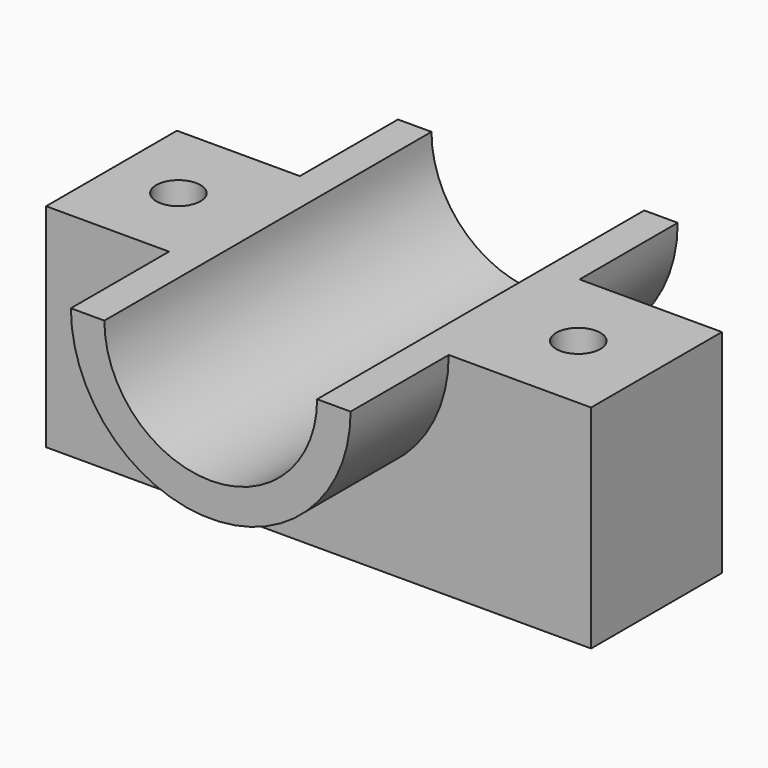
from build123d import *

# Parameters (mm, degrees)
F0_R     = 21.720665
F0_R_2   = 16.520494
F1_DEPTH = 31.75
F0_W     = 84.640459
F0_H     = 65.472521
F2_DEPTH = 12.7
F3_W     = 86.387612
F3_H     = 35.076849
F4_DEPTH = 31.75
F5_R     = 3.429
F6_DEPTH = 25.4


with BuildPart() as f1:
    # F0 (on Front) → F1 (new body, symmetric)
    with BuildSketch(Plane.XZ):
        Circle(F0_R)
        Circle(F0_R_2, mode=Mode.SUBTRACT)
    extrude(amount=F1_DEPTH, both=True)

    # F0 (on Front) → F2 (join, symmetric)
    with BuildSketch(Plane.XZ):
        with Locations((1.507592, -0.216593)):
            Rectangle(F0_W, F0_H)
        Circle(F0_R, mode=Mode.SUBTRACT)
    extrude(amount=F2_DEPTH, both=True)

    # F3 (on Front) → F4 (cut, symmetric)
    with BuildSketch(Plane.XZ):
        with Locations((2.319131, 17.538424)):
            Rectangle(F3_W, F3_H)
    extrude(amount=F4_DEPTH, both=True, mode=Mode.SUBTRACT)

    # F5 (on face) → F6 (cut)
    with BuildSketch(Plane.XY):
        with Locations((-30.424622, 0)):
            Circle(F5_R)
        with Locations((31.681519, 0)):
            Circle(F5_R)
    extrude(amount=-F6_DEPTH, mode=Mode.SUBTRACT)


solid = f1.part
